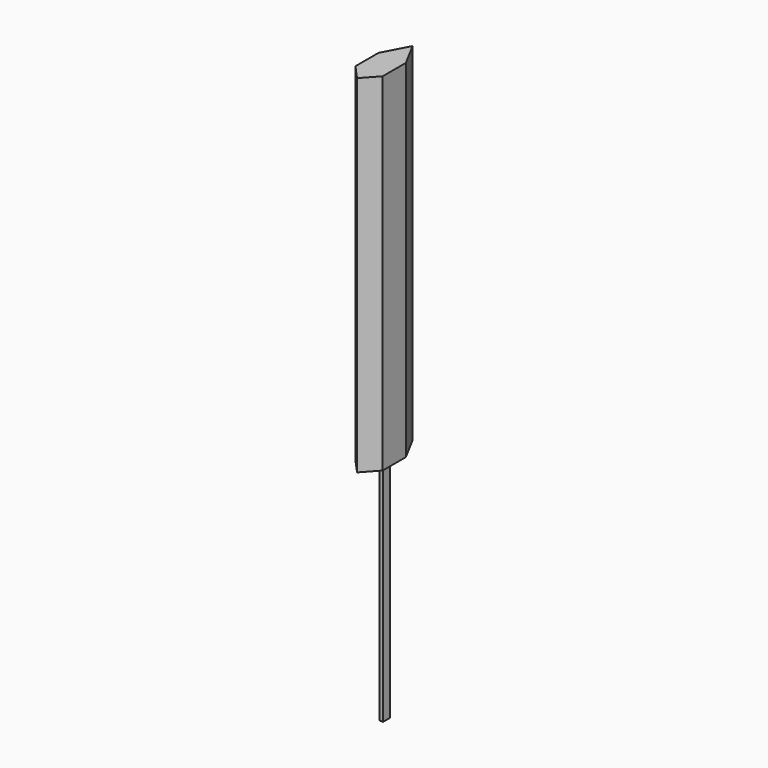
from build123d import *

# Parameters (mm, degrees)
F1_DEPTH = 76.2
F2_W     = 0.762
F2_H     = 1.905
F3_DEPTH = 101.6


with BuildPart() as f1:
    # F0 (on Top) → F1 (new body, symmetric)
    with BuildSketch(Plane.XY):
        Polygon((-5.981471, -11.203214), (-5.981471, -23.903214), (0, -30.48), (0, 0), align=None)
        Polygon((0, 0), (0, -30.48), (5.981471, -23.903214), (5.981471, -11.203214), align=None)
    extrude(amount=F1_DEPTH, both=True)

    # F2 (on face) → F3 (join)
    with BuildSketch(Plane(origin=(0, 0, -76.2), x_dir=(1, 0, 0), z_dir=(0, 0, -1))):
        Polygon((0.762, 17.145), (0, 17.145), (0, 15.24), (0, 13.335), (0.762, 13.335), (0.762, 15.24), align=None)
        with Locations((-0.381, 16.1925)):
            Rectangle(F2_W, F2_H)
        with Locations((-0.381, 14.2875)):
            Rectangle(F2_W, F2_H)
    extrude(amount=F3_DEPTH)


solid = f1.part
